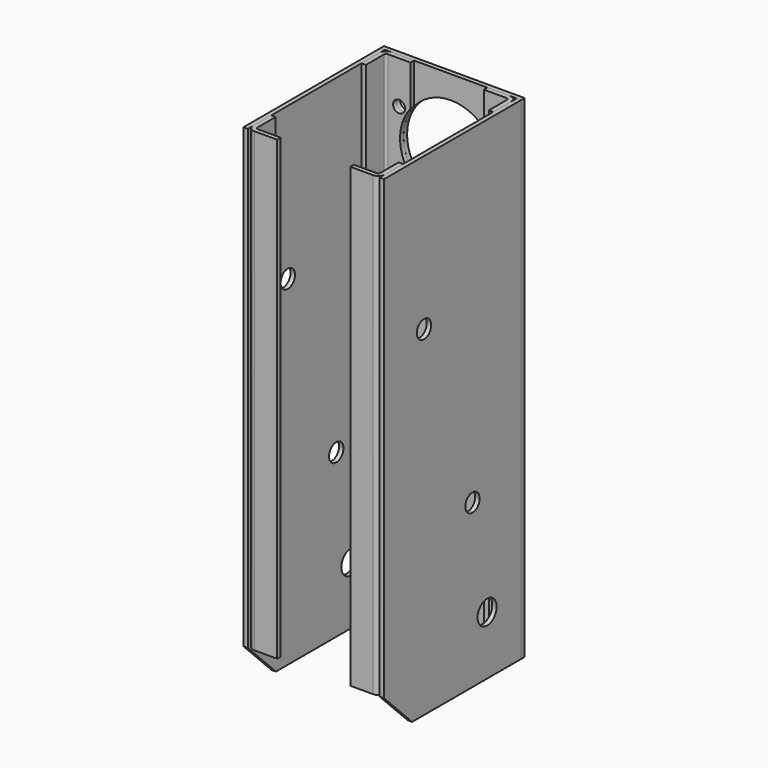
from build123d import *

# Parameters (mm, degrees)
F0_W      = 152.4
F0_H      = 533.4
F1_DEPTH  = 4.7752
F2_R      = 51.181
F2_R_2    = 6.5405
F3_DEPTH  = 25.4
F4_W      = 4.7752
F4_H      = 185.7248
F5_DEPTH  = 533.4
F7_DEPTH  = 533.4
F8_R      = 2.286
F9_R      = 7.0612
F10_R     = 12.8905
F11_DEPTH = 152.401
F12_R     = 9.7282
F13_DEPTH = 152.401
F14_R     = 6.5405
F15_DEPTH = 6.35
F17_DEPTH = 6.35
F19_DEPTH = 4.7752
F21_DEPTH = 4.7752
F23_DEPTH = 38.1


with BuildPart() as f1:
    # F0 (on Front) → F1 (new body)
    with BuildSketch(Plane.XZ):
        Rectangle(F0_W, F0_H)
    extrude(amount=-F1_DEPTH)

    # F2 (on face) → F3 (cut)
    with BuildSketch(Plane(origin=(0, 4.7752, 0), x_dir=(-1, 0, 0), z_dir=(0, 1, 0))):
        with Locations((0, 190.5677606951)):
            Circle(F2_R)
        with Locations((0, 130.3105213901)):
            Circle(F2_R_2)
        with Locations((52.1843, 220.6963803475)):
            Circle(F2_R_2)
        with Locations((-52.1843, 220.6963803475)):
            Circle(F2_R_2)
    extrude(amount=-F3_DEPTH, mode=Mode.SUBTRACT)

    # F16 (on face) → F17 (cut)
    with BuildSketch(Plane(origin=(0, 4.7752, 0), x_dir=(-1, 0, 0), z_dir=(0, 1, 0))):
        with BuildLine():
            Line((19.05, 6.35), (19.05, 44.45))
            ThreePointArc((19.05, 44.45), (0, 63.5), (-19.05, 44.45))
            Line((-19.05, 44.45), (-19.05, 6.35))
            ThreePointArc((-19.05, 6.35), (0, -12.7), (19.05, 6.35))
        make_face()
    extrude(amount=-F17_DEPTH, mode=Mode.SUBTRACT)


with BuildPart() as f5:
    # F4 (on face) → F5 (new body, through all)
    with BuildSketch(Plane.XY.offset(266.7)):
        with Locations((73.8124, -92.8624)):
            Rectangle(F4_W, F4_H)
        with Locations((-73.8124, -92.8624)):
            Rectangle(F4_W, F4_H)
    extrude(amount=-F5_DEPTH)

    # F10 (on face) → F11 (cut, through all)
    with BuildSketch(Plane.YZ.offset(76.2)):
        with Locations((-46.0248, -203.2)):
            Circle(F10_R)
    extrude(amount=-F11_DEPTH, mode=Mode.SUBTRACT)

    # F12 (on face) → F13 (cut, through all)
    with BuildSketch(Plane.YZ.offset(76.2)):
        with BuildLine():
            ThreePointArc((-48.2632118342, -190.5053356598), (-54.3106536827, -213.074695894), (-33.1343, -203.2))
            ThreePointArc((-33.1343, -203.2), (-37.7389463173, -193.325304106), (-48.2632118342, -190.5053356598))
        make_face()
        with BuildLine():
            ThreePointArc((-67.5611887766, -81.0610698712), (-75.4481906668, -92.3248758999), (-64.1843846381, -100.2118777902))
            Line((-64.1843846381, -100.2118777902), (-67.5611887766, -81.0610698712))
        make_face()
        with BuildLine():
            Line((-67.5611887766, -81.0610698712), (-64.1843846381, -100.2118777902))
            ThreePointArc((-64.1843846381, -100.2118777902), (-58.4244446616, -96.8863748942), (-56.1496667073, -90.6364738307))
            ThreePointArc((-56.1496667073, -90.6364738307), (-59.6228856438, -83.1881317849), (-67.5611887766, -81.0610698712))
        make_face()
        with Locations((-131.5466, 101.6)):
            Circle(F12_R)
    extrude(amount=-F13_DEPTH, mode=Mode.SUBTRACT)

    # F18 (on face) → F19 (cut, through all)
    with BuildSketch(Plane.YZ.offset(76.2)):
        Polygon((-185.7248, -228.6), (-185.7248, -266.7), (-147.6248, -266.7), align=None)
    extrude(amount=-F19_DEPTH, mode=Mode.SUBTRACT)

    # F20 (on face) → F21 (cut, through all)
    with BuildSketch(Plane(origin=(-76.2, 0, 0), x_dir=(0, -1, 0), z_dir=(-1, 0, 0))):
        Polygon((147.6248, -266.7), (185.7248, -266.7), (185.7248, -228.6), align=None)
    extrude(amount=-F21_DEPTH, mode=Mode.SUBTRACT)


with BuildPart() as f7:
    # F6 (on face) → F7 (new body)
    with BuildSketch(Plane.XY.offset(266.7)):
        Polygon((-39.6748, 0), (-71.4248, 0), (-71.4248, -31.75), (-66.6496, -31.75), (-66.6496, -4.7752), (-39.6748, -4.7752), align=None)
        Polygon((71.4248, -31.75), (71.4248, 0), (39.6748, 0), (39.6748, -4.7752), (66.6496, -4.7752), (66.6496, -31.75), align=None)
        Polygon((-71.4248, -153.9748), (-71.4248, -185.7248), (-39.6748, -185.7248), (-39.6748, -180.9496), (-66.6496, -180.9496), (-66.6496, -153.9748), align=None)
        Polygon((66.6496, -153.9748), (66.6496, -180.9496), (39.6748, -180.9496), (39.6748, -185.7248), (71.4248, -185.7248), (71.4248, -153.9748), align=None)
    extrude(amount=-F7_DEPTH)

    # F8
    f8_edges = [f7.edges().sort_by_distance(p)[0] for p in [
        (-66.6496, -4.7752, 0),
        (66.6496, -4.7752, 0),
        (-66.6496, -180.9496, 0),
        (66.6496, -180.9496, 0),
    ]]
    fillet(f8_edges, radius=F8_R)

    # F9
    f9_edges = [f7.edges().sort_by_distance(p)[0] for p in [
        (71.4248, 0, 0),
        (71.4248, -185.7248, 0),
        (-71.4248, -185.7248, 0),
        (-71.4248, 0, 0),
    ]]
    fillet(f9_edges, radius=F9_R)

    # F14 (on face) → F15 (cut)
    with BuildSketch(Plane(origin=(0, 0, 0), x_dir=(-1, 0, 0), z_dir=(0, 1, 0))):
        with Locations((-52.1843, 220.6963803475)):
            Circle(F14_R)
        with BuildLine():
            ThreePointArc((-39.6748, 222.9004841492), (-51.181, 190.5677606951), (-39.6748, 158.2350372409))
            Line((-39.6748, 158.2350372409), (-39.6748, 222.9004841492))
        make_face()
        with BuildLine():
            Line((39.6748, 222.9004841492), (39.6748, 158.2350372409))
            ThreePointArc((39.6748, 158.2350372409), (51.181, 190.5677606951), (39.6748, 222.9004841492))
        make_face()
        with Locations((52.1843, 220.6963803475)):
            Circle(F14_R)
    extrude(amount=-F15_DEPTH, mode=Mode.SUBTRACT)

    # F22 (on face) → F23 (cut)
    with BuildSketch(Plane(origin=(0, 0, -266.7), x_dir=(1, 0, 0), z_dir=(0, 0, -1))):
        with BuildLine():
            Line((-39.6748, 180.9496), (-39.6748, 185.7248))
            Line((-39.6748, 185.7248), (-64.3636, 185.7248))
            ThreePointArc((-64.3636, 185.7248), (-69.3566224033, 183.6566224033), (-71.4248, 178.6636))
            Line((-71.4248, 178.6636), (-71.4248, 153.9748))
            Line((-71.4248, 153.9748), (-66.6496, 153.9748))
            Line((-66.6496, 153.9748), (-66.6496, 178.6636))
            ThreePointArc((-66.6496, 178.6636), (-65.9800461018, 180.2800461018), (-64.3636, 180.9496))
            Line((-64.3636, 180.9496), (-39.6748, 180.9496))
        make_face()
        with BuildLine():
            Line((66.6496, 153.9748), (71.4248, 153.9748))
            Line((71.4248, 153.9748), (71.4248, 178.6636))
            ThreePointArc((71.4248, 178.6636), (69.3566224033, 183.6566224033), (64.3636, 185.7248))
            Line((64.3636, 185.7248), (39.6748, 185.7248))
            Line((39.6748, 185.7248), (39.6748, 180.9496))
            Line((39.6748, 180.9496), (64.3636, 180.9496))
            ThreePointArc((64.3636, 180.9496), (65.9800461018, 180.2800461018), (66.6496, 178.6636))
            Line((66.6496, 178.6636), (66.6496, 153.9748))
        make_face()
    extrude(amount=-F23_DEPTH, mode=Mode.SUBTRACT)


solid = Compound([f1.part, f5.part, f7.part])
